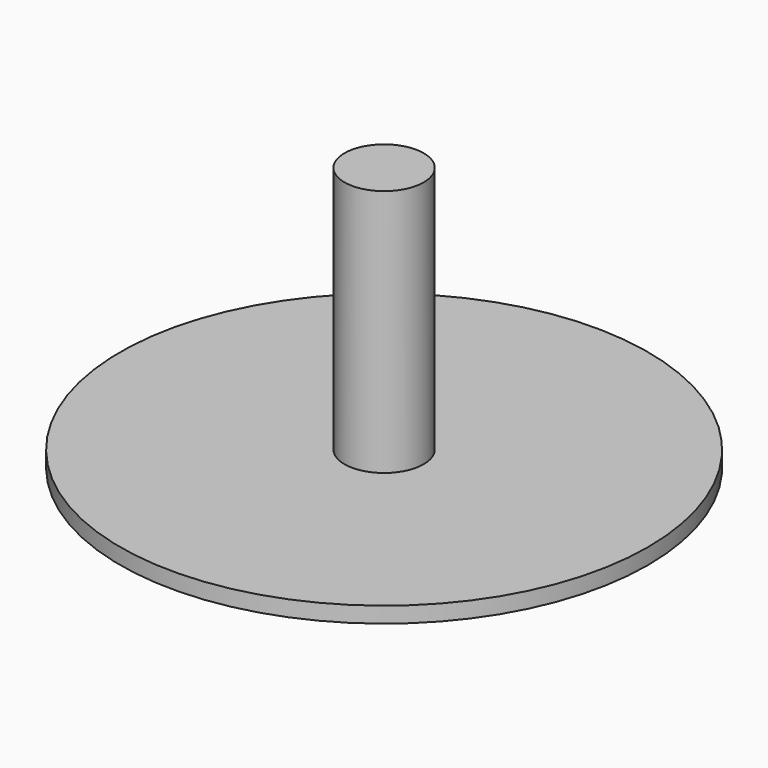
from build123d import *


with BuildPart() as part:
    # Sketch → Revolution (revolve)
    with BuildSketch(Plane.XZ):
        Polygon((0, 50), (0, -3), (4, -3), (4, 0), (50, 0), (50, 3), (7.5, 3), (7.5, 50), align=None)
    revolve(axis=Axis((0, 0, 0), (0, 0, 1)))


solid = part.part
